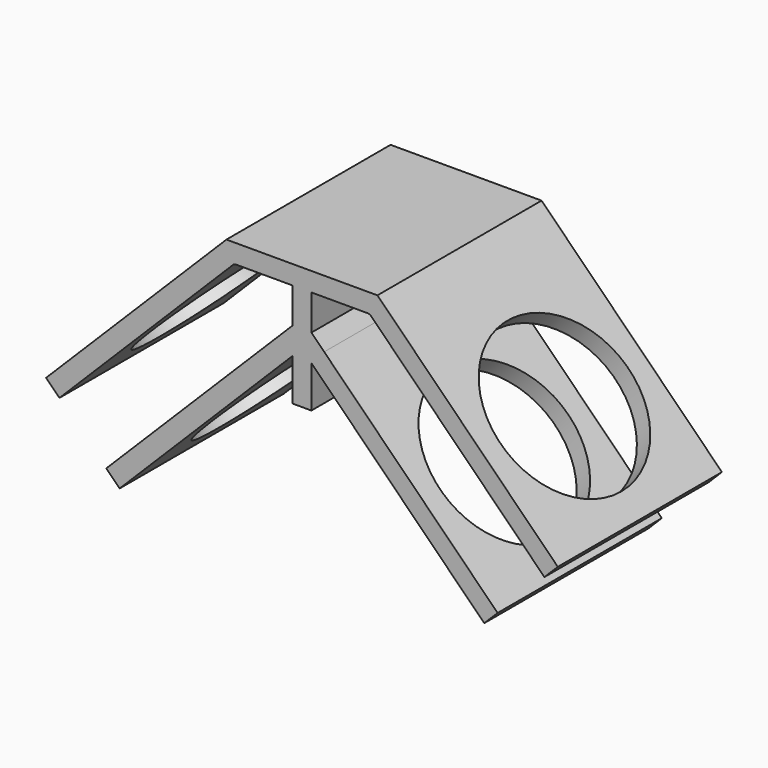
from build123d import *

# Parameters (mm, degrees)
F1_DEPTH = 217
F2_R     = 85
F3_DEPTH = 120
F4_R     = 85
F5_DEPTH = 120


with BuildPart() as f1:
    # F0 (on Front) → F1 (new body)
    with BuildSketch(Plane.XZ):
        with BuildLine():
            Line((-79.857185, 237.112019), (-270.612759, 46.356446))
            Line((-270.612759, 46.356446), (-256.470623, 32.21431))
            Line((-256.470623, 32.21431), (-73.03738, 215.647553))
            ThreePointArc((-73.03738, 215.647553), (-71.415263, 216.731417), (-69.501846, 217.112019))
            Line((-69.501846, 217.112019), (-10, 217.112019))
            Line((-10, 217.112019), (-10, 179.689983))
            Line((-10, 179.689983), (-23.539905, 166.150078))
            Line((-23.539905, 166.150078), (-206.973149, -17.283164))
            Line((-206.973149, -17.283164), (-192.831013, -31.4253))
            Line((-192.831013, -31.4253), (-10, 151.405712))
            Line((-10, 151.405712), (-10, 107.112019))
            Line((-10, 107.112019), (0, 107.112019))
            Line((0, 107.112019), (10, 107.112019))
            Line((10, 107.112019), (10, 151.405712))
            Line((10, 151.405712), (192.831013, -31.4253))
            Line((192.831013, -31.4253), (206.973149, -17.283164))
            Line((206.973149, -17.283164), (23.539905, 166.150078))
            Line((23.539905, 166.150078), (10, 179.689983))
            Line((10, 179.689983), (10, 217.112019))
            Line((10, 217.112019), (69.501846, 217.112019))
            ThreePointArc((69.501846, 217.112019), (71.415263, 216.731417), (73.03738, 215.647553))
            Line((73.03738, 215.647553), (256.470622, 32.21431))
            Line((256.470622, 32.21431), (270.612758, 46.356446))
            Line((270.612758, 46.356446), (79.857185, 237.112019))
            Line((79.857185, 237.112019), (-79.857185, 237.112019))
        make_face()
    extrude(amount=F1_DEPTH)

    # F2 (on face) → F3 (cut)
    with BuildSketch(Plane(origin=(-158.484602, 0, 158.484603), x_dir=(0.707107, 0, 0.707107), z_dir=(-0.707107, 0, 0.707107))):
        with Locations((-45.80316, -108.5)):
            Circle(F2_R)
    extrude(amount=-F3_DEPTH, mode=Mode.SUBTRACT)

    # F4 (on face) → F5 (cut)
    with BuildSketch(Plane(origin=(158.484602, 0, 158.484602), x_dir=(0.707107, 0, -0.707107), z_dir=(0.707107, 0, 0.707107))):
        with Locations((45.803159, -108.5)):
            Circle(F4_R)
    extrude(amount=-F5_DEPTH, mode=Mode.SUBTRACT)


solid = f1.part
